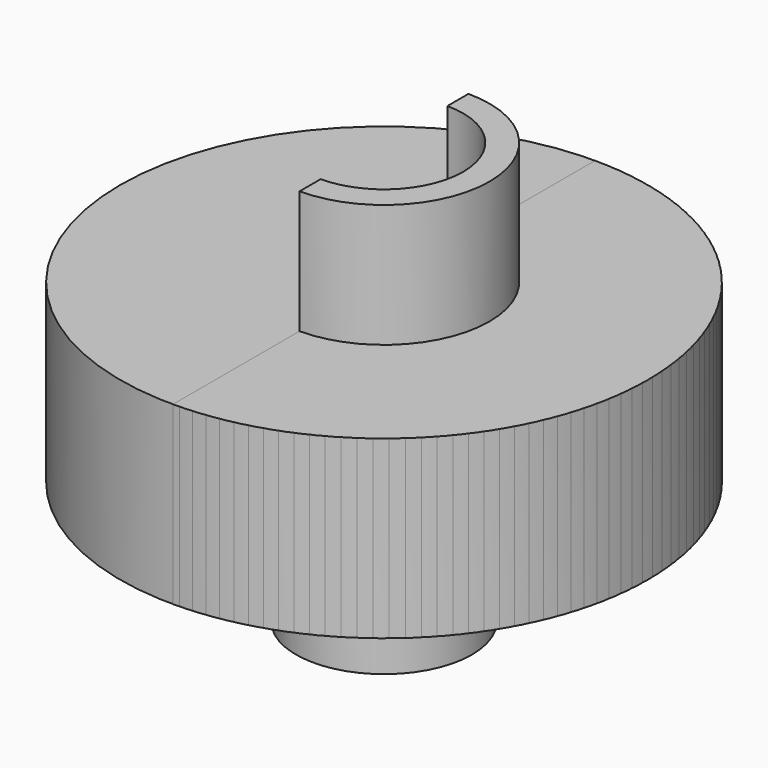
from build123d import *

# Parameters (mm, degrees)
SKETCH_R        = 15
PAD_DEPTH       = 10
SKETCH001_R     = 2.5
POCKET_DEPTH    = 5
SKETCH002_R     = 5
PAD001_DEPTH    = 7
SKETCH003_R     = 3.5
POCKET001_DEPTH = 7
PAD002_DEPTH    = 10
PAD003_DEPTH    = 7
POCKET002_DEPTH = 12
POCKET003_DEPTH = 7


with BuildPart() as body:
    # Sketch → Pad (new body)
    with BuildSketch(Plane.XY):
        Circle(SKETCH_R)
    extrude(amount=PAD_DEPTH)

    # Sketch001 (on Face2 of Pad) → Pocket (cut)
    with BuildSketch(Plane(origin=(0, 0, 0), x_dir=(1, 0, 0), z_dir=(0, 0, -1))):
        Circle(SKETCH001_R)
    extrude(amount=-POCKET_DEPTH, mode=Mode.SUBTRACT)

    # Sketch002 (on Face2 of Pocket) → Pad001 (join)
    with BuildSketch(Plane(origin=(0, 0, 0), x_dir=(1, 0, 0), z_dir=(0, 0, -1))):
        Circle(SKETCH002_R)
    extrude(amount=PAD001_DEPTH)

    # Sketch003 (on Face5 of Pad001) → Pocket001 (cut)
    with BuildSketch(Plane(origin=(0, 0, -7), x_dir=(1, 0, 0), z_dir=(0, 0, -1))):
        Circle(SKETCH003_R)
    extrude(amount=-POCKET001_DEPTH, mode=Mode.SUBTRACT)


with BuildPart() as obj1:
    # Sketch004 → Pad002 (new body)
    with BuildSketch(Plane.XY):
        with BuildLine():
            ThreePointArc((0, -15), (15, 0), (0, 15))
            Line((0, 15), (0, -15))
        make_face()
    extrude(amount=PAD002_DEPTH)

    # Sketch006 → Pad003 (join)
    with BuildSketch(Plane.XY.offset(10)):
        with BuildLine():
            ThreePointArc((0, -6), (6, 0), (0, 6))
            Line((0, 6), (0, -6))
        make_face()
    extrude(amount=PAD003_DEPTH)

    # Sketch007 (on Face7 of Pad003) → Pocket002 (cut)
    with BuildSketch(Plane.XY.offset(17)):
        with BuildLine():
            ThreePointArc((0, -2.5), (2.5, 0), (0, 2.5))
            Line((0, 2.5), (0, -2.5))
        make_face()
    extrude(amount=-POCKET002_DEPTH, mode=Mode.SUBTRACT)

    # Sketch008 (on Face10 of Pocket002) → Pocket003 (cut)
    with BuildSketch(Plane.XY.offset(17)):
        with BuildLine():
            ThreePointArc((0, -4.5), (4.5, 0), (0, 4.5))
            Line((0, 4.5), (0, -4.5))
        make_face()
    extrude(amount=-POCKET003_DEPTH, mode=Mode.SUBTRACT)


solid = Compound([body.part, obj1.part])
